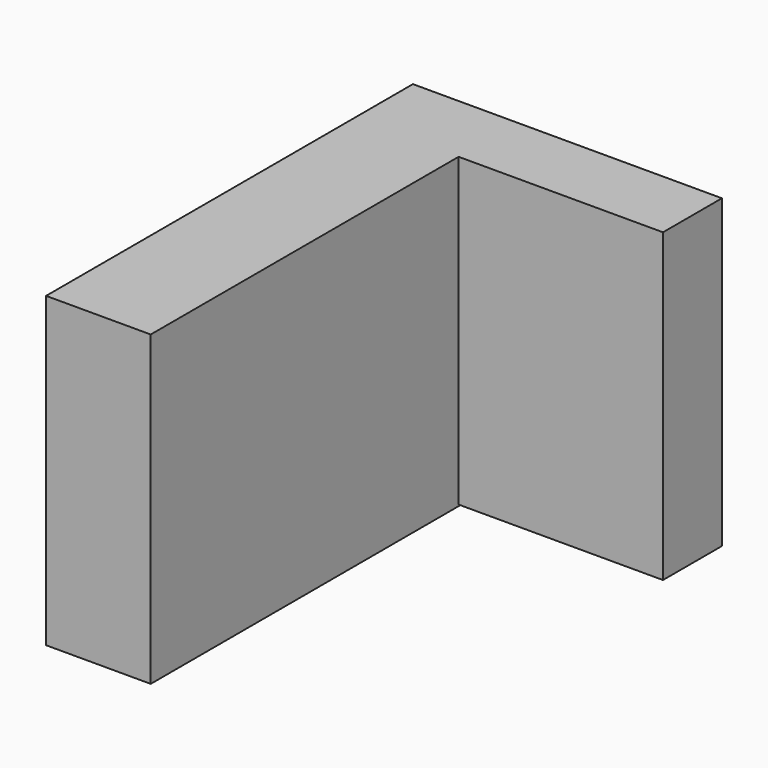
from build123d import *

# Parameters (mm, degrees)
F0_W     = 41.935582
F0_H     = 41.549082
F1_DEPTH = 10
F3_DEPTH = 14.2


with BuildPart() as f1:
    # F0 (on Front) → F1 (new body)
    with BuildSketch(Plane.XZ):
        with Locations((-43.771474, 27.44172)):
            Rectangle(F0_W, F0_H)
    extrude(amount=F1_DEPTH)

    # F2 (on face) → F3 (join)
    with BuildSketch(Plane(origin=(-64.739265, 0, 0), x_dir=(0, -1, 0), z_dir=(-1, 0, 0))):
        Polygon((62.226996, 48.216261), (10, 48.216261), (10, 6.667179), (0, 6.667179), (0, 6.473927), (62.226996, 6.473927), align=None)
        Polygon((62.226996, 48.216261), (10, 48.216261), (10, 6.667179), (0, 6.667179), (0, 6.473927), (62.226996, 6.473927), align=None)
    extrude(amount=-F3_DEPTH)


solid = f1.part
